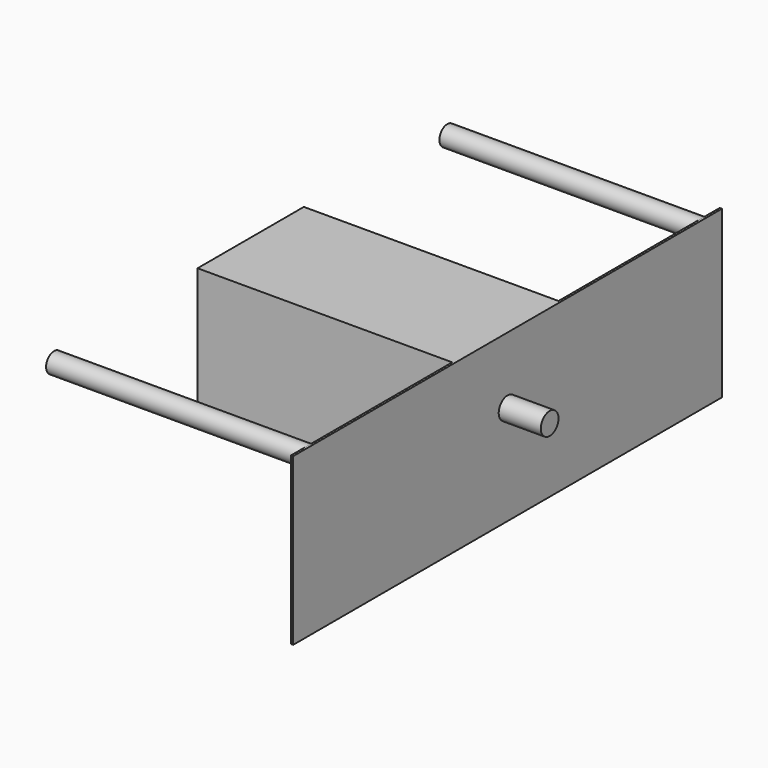
from build123d import *

# Parameters (mm, degrees)
F0_W     = 230
F0_H     = 120
F1_DEPTH = 120
F2_R     = 10
F3_DEPTH = 40
F4_W     = 484
F4_H     = 150
F5_DEPTH = 2
F6_R     = 9
F7_DEPTH = 230


with BuildPart() as f1:
    # F0 (on Top) → F1 (new body)
    with BuildSketch(Plane.XY):
        with Locations((56.06029, 41.008315)):
            Rectangle(F0_W, F0_H)
    extrude(amount=F1_DEPTH)

    # F2 (on face) → F3 (join)
    with BuildSketch(Plane.YZ.offset(171.06029)):
        with Locations((41.008315, 60)):
            Circle(F2_R)
    extrude(amount=F3_DEPTH)

    # F4 (on face) → F5 (join)
    with BuildSketch(Plane.YZ.offset(171.06029)):
        with Locations((41.008315, 45)):
            Rectangle(F4_W, F4_H)
    extrude(amount=F5_DEPTH)

    # F6 (on face) → F7 (join)
    with BuildSketch(Plane(origin=(171.06029, 0, 0), x_dir=(0, -1, 0), z_dir=(-1, 0, 0))):
        with Locations((180.991685, 111)):
            Circle(F6_R)
        with Locations((-263.008315, 111)):
            Circle(F6_R)
    extrude(amount=F7_DEPTH)


solid = f1.part
